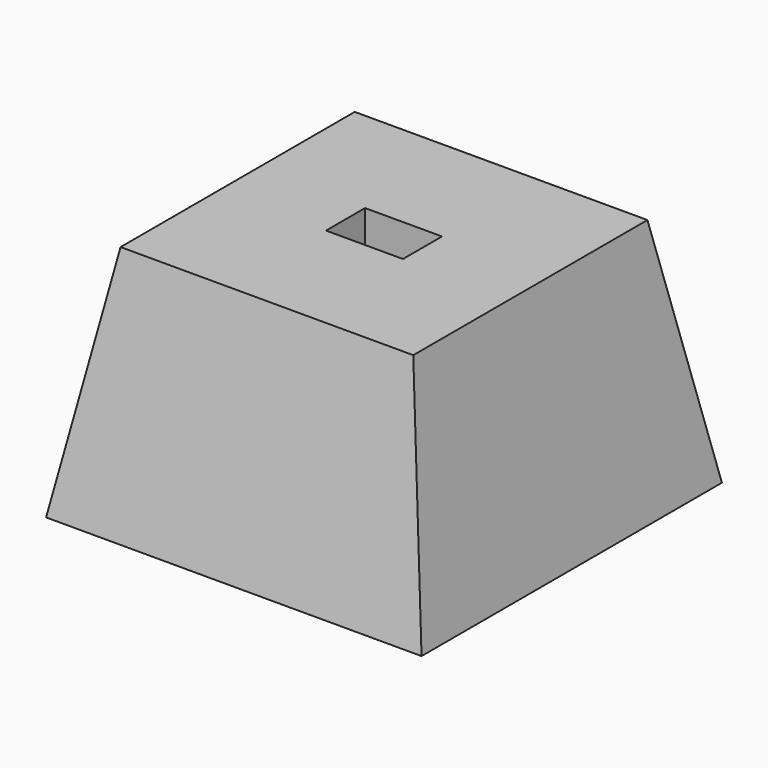
from build123d import *

# Parameters (mm, degrees)
F0_W     = 80
F0_H     = 80
F1_DEPTH = 50
F1_TAPER = 10
F2_W     = 16.4
F2_H     = 10.4
F3_DEPTH = 10


with BuildPart() as f1:
    # F0 (on Top) → F1 (new body)
    with BuildSketch(Plane.XY):
        Rectangle(F0_W, F0_H)
    extrude(amount=F1_DEPTH, taper=F1_TAPER)

    # F2 (on face) → F3 (cut)
    with BuildSketch(Plane.XY.offset(50)):
        Rectangle(F2_W, F2_H)
    extrude(amount=-F3_DEPTH, mode=Mode.SUBTRACT)


solid = f1.part
